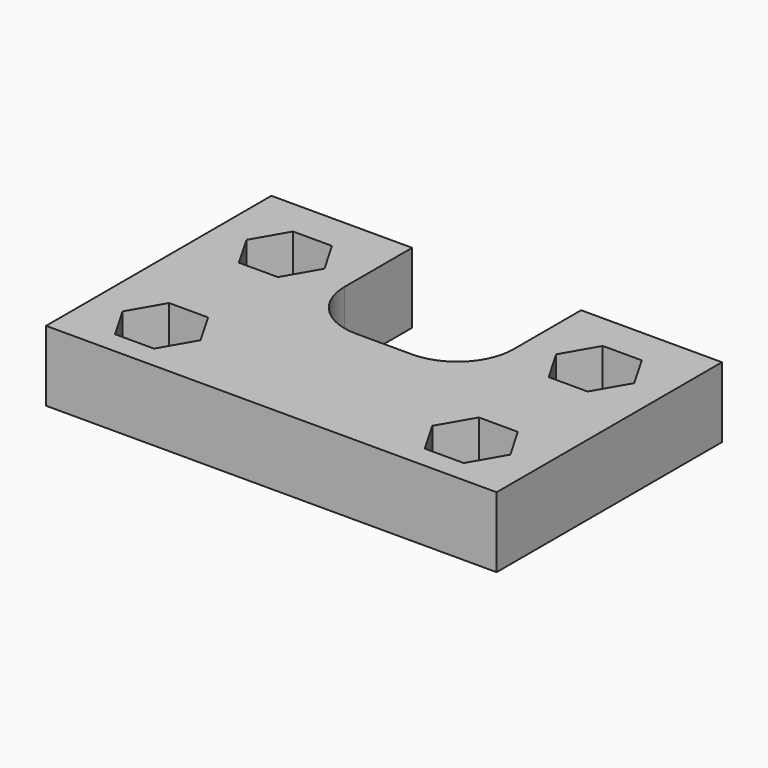
from build123d import *

# Parameters (mm, degrees)
F1_DEPTH = 25


with BuildPart() as f1:
    # F0 (on Top) → F1 (new body)
    with BuildSketch(Plane.XY):
        with BuildLine():
            Line((-99.245975, -8.000741), (-99.245975, -108.000741))
            Line((-99.245975, -108.000741), (60.754025, -108.000741))
            Line((60.754025, -108.000741), (60.754025, -8.000741))
            Line((60.754025, -8.000741), (10.754025, -8.000741))
            Line((10.754025, -8.000741), (10.754025, -38.000741))
            ThreePointArc((10.754025, -38.000741), (4.896161, -52.142877), (-9.245975, -58.000741))
            Line((-9.245975, -58.000741), (-29.245975, -58.000741))
            ThreePointArc((-29.245975, -58.000741), (-43.388111, -52.142877), (-49.245975, -38.000741))
            Line((-49.245975, -38.000741), (-49.245975, -8.000741))
            Line((-49.245975, -8.000741), (-99.245975, -8.000741))
        make_face()
        Polygon((-88.102381, -88.000741), (-81.174178, -76.000741), (-67.317772, -76.000741), (-60.389569, -88.000741), (-67.317772, -100.000741), (-81.174178, -100.000741), align=None, mode=Mode.SUBTRACT)
        Polygon((21.897619, -88.000741), (28.825822, -76.000741), (42.682228, -76.000741), (49.610431, -88.000741), (42.682228, -100.000741), (28.825822, -100.000741), align=None, mode=Mode.SUBTRACT)
        Polygon((-88.102381, -33.000741), (-81.174178, -21.000741), (-67.317772, -21.000741), (-60.389569, -33.000741), (-67.317772, -45.000741), (-81.174178, -45.000741), align=None, mode=Mode.SUBTRACT)
        Polygon((49.610431, -33.000741), (42.682228, -45.000741), (28.825822, -45.000741), (21.897619, -33.000741), (28.825822, -21.000741), (42.682228, -21.000741), align=None, mode=Mode.SUBTRACT)
    extrude(amount=F1_DEPTH)


solid = f1.part
